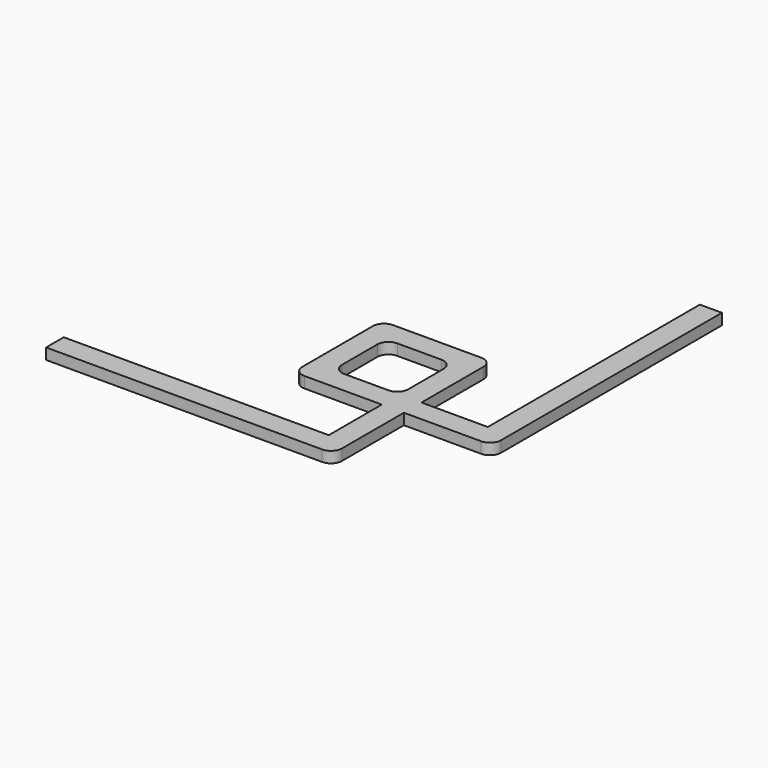
from build123d import *

# Parameters (mm, degrees)
F1_DEPTH = 5


with BuildPart() as f1:
    # F0 (on Top) → F1 (new body)
    with BuildSketch(Plane.XY):
        with BuildLine():
            Line((22.006568, 31.475988), (-17.993432, 31.475988))
            ThreePointArc((-17.993432, 31.475988), (-21.528966, 30.011522), (-22.993432, 26.475988))
            Line((-22.993432, 26.475988), (-22.993432, -13.524012))
            ThreePointArc((-22.993432, -13.524012), (-21.528966, -17.059546), (-17.993432, -18.524012))
            Line((-17.993432, -18.524012), (17.006568, -18.524012))
            Line((17.006568, -18.524012), (27.006568, -18.524012))
            Line((27.006568, -18.524012), (27.006568, -8.524012))
            Line((27.006568, -8.524012), (27.006568, 26.475988))
            ThreePointArc((27.006568, 26.475988), (25.542101, 30.011522), (22.006568, 31.475988))
        make_face()
        with BuildLine():
            ThreePointArc((-12.993432, 16.475988), (-11.528966, 20.011522), (-7.993432, 21.475988))
            Line((-7.993432, 21.475988), (12.006568, 21.475988))
            ThreePointArc((12.006568, 21.475988), (15.542101, 20.011522), (17.006568, 16.475988))
            Line((17.006568, 16.475988), (17.006568, -3.524012))
            ThreePointArc((17.006568, -3.524012), (15.542101, -7.059546), (12.006568, -8.524012))
            Line((12.006568, -8.524012), (-7.993432, -8.524012))
            ThreePointArc((-7.993432, -8.524012), (-11.528966, -7.059546), (-12.993432, -3.524012))
            Line((-12.993432, -3.524012), (-12.993432, 16.475988))
        make_face(mode=Mode.SUBTRACT)
        with BuildLine():
            Line((57.006568, -8.524012), (27.006568, -8.524012))
            Line((27.006568, -8.524012), (27.006568, -18.524012))
            Line((27.006568, -18.524012), (62.006568, -18.524012))
            ThreePointArc((62.006568, -18.524012), (65.542101, -17.059546), (67.006568, -13.524012))
            Line((67.006568, -13.524012), (67.006568, 111.475988))
            Line((67.006568, 111.475988), (57.006568, 111.475988))
            Line((57.006568, 111.475988), (57.006568, -8.524012))
        make_face()
        with BuildLine():
            Line((27.006568, -53.524012), (27.006568, -18.524012))
            Line((27.006568, -18.524012), (17.006568, -18.524012))
            Line((17.006568, -18.524012), (17.006568, -48.524012))
            Line((17.006568, -48.524012), (-102.993432, -48.524012))
            Line((-102.993432, -48.524012), (-102.993432, -58.524012))
            Line((-102.993432, -58.524012), (22.006568, -58.524012))
            ThreePointArc((22.006568, -58.524012), (25.542101, -57.059546), (27.006568, -53.524012))
        make_face()
    extrude(amount=F1_DEPTH)


solid = f1.part
